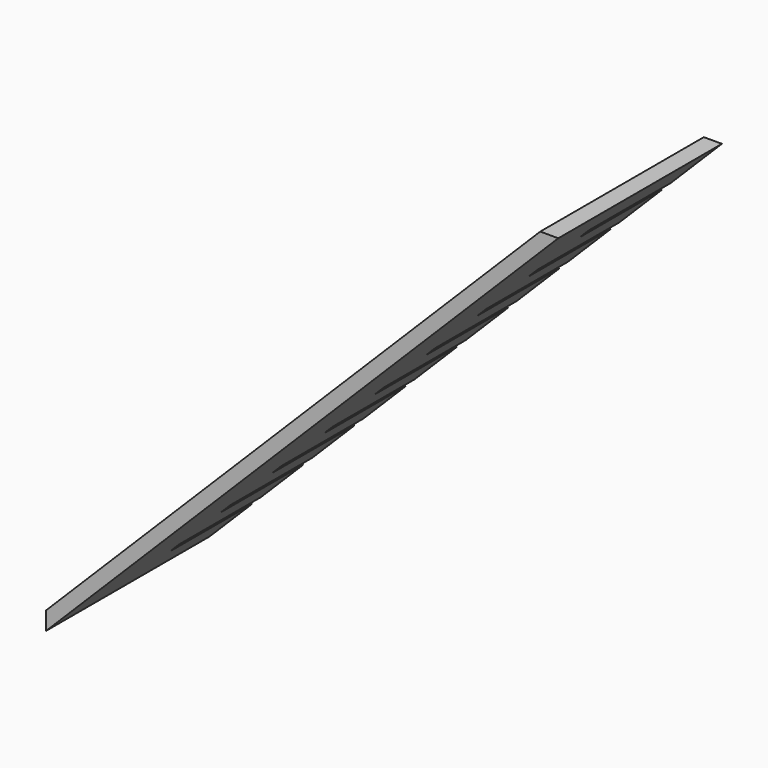
from build123d import *

# Parameters (mm, degrees)
F1_DEPTH = 152.4
F2_W     = 152.4
F2_H     = 19.05
F3_DEPTH = 19.05


with BuildPart() as f1:
    # F0 (on Front) → F1 (new body, symmetric)
    with BuildSketch(Plane.XZ):
        Polygon((-421.5234547212, 26.9407683632), (-421.5234547212, 0), (341.7983155697, 763.3217702909), (314.8575472065, 763.3217702909), align=None)
    extrude(amount=F1_DEPTH, both=True)

    # F2 (on face) → F3 (cut)
    with BuildSketch(Plane(origin=(-224.2321115422, 0, 224.2321115422), x_dir=(0, -1, 0), z_dir=(-0.7071067812, 0, 0.7071067812))):
        with Locations((-76.2, -199.6370932625)):
            Rectangle(F2_W, F2_H)
        with Locations((-76.2, -91.6870932625)):
            Rectangle(F2_W, F2_H)
        with Locations((-76.2, 16.2629067375)):
            Rectangle(F2_W, F2_H)
        with Locations((-76.2, 124.2129067375)):
            Rectangle(F2_W, F2_H)
        with Locations((-76.2, 232.1629067375)):
            Rectangle(F2_W, F2_H)
        with Locations((-76.2, 340.1129067375)):
            Rectangle(F2_W, F2_H)
        with Locations((-76.2, 448.0629067375)):
            Rectangle(F2_W, F2_H)
        with Locations((-76.2, 556.0129067375)):
            Rectangle(F2_W, F2_H)
        with Locations((-76.2, 663.9629067375)):
            Rectangle(F2_W, F2_H)
    extrude(amount=-F3_DEPTH, mode=Mode.SUBTRACT)


solid = f1.part
